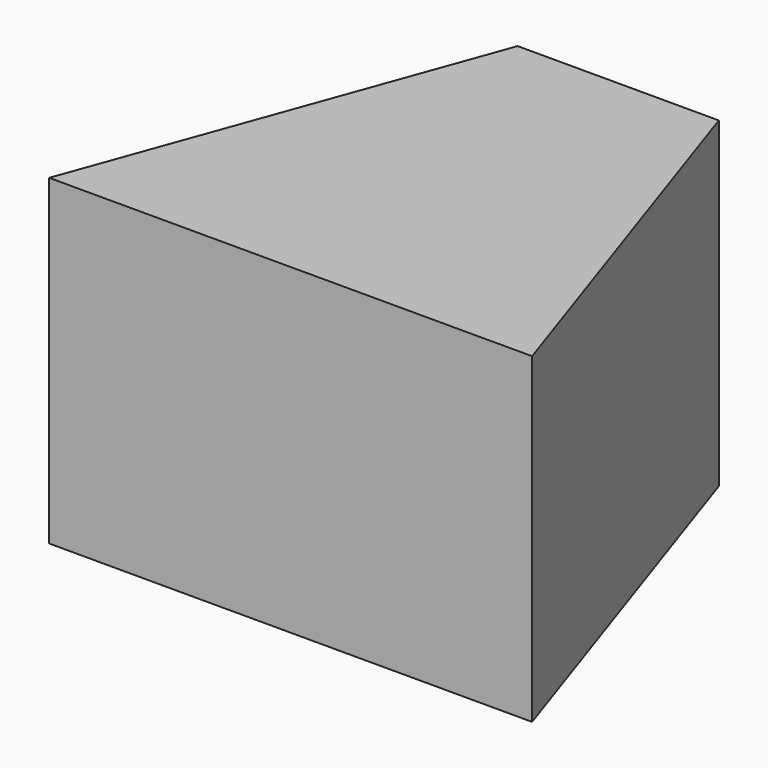
from build123d import *

# Parameters (mm, degrees)
PAD_DEPTH = 40


with BuildPart() as part:
    # Sketch → Pad (new body)
    with BuildSketch(Plane.XY):
        Polygon((26.198512, 58), (51.198512, 58), (68, 8), (8, 8), align=None)
    extrude(amount=PAD_DEPTH)


solid = part.part
